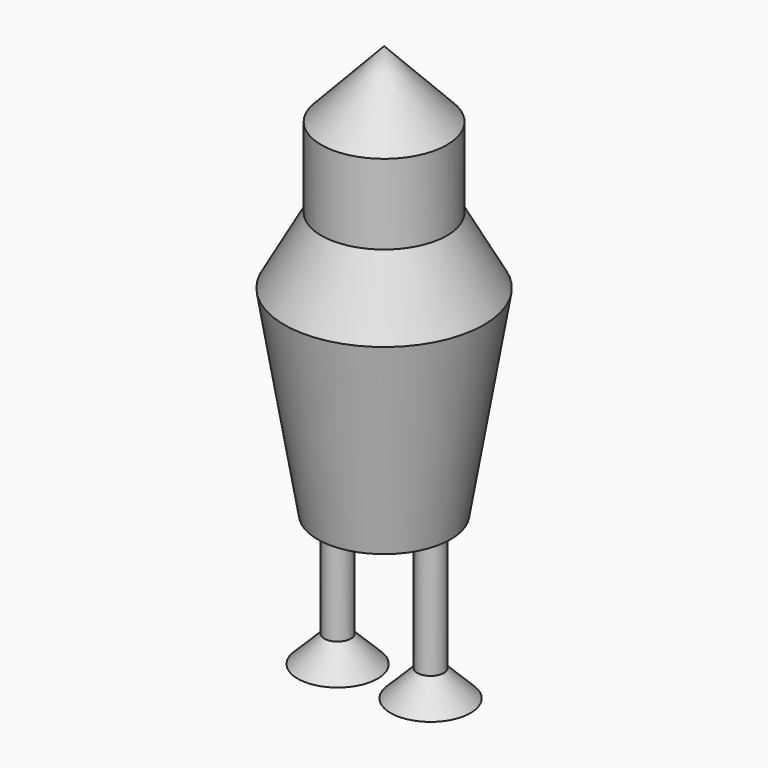
from build123d import *

# Parameters (mm, degrees)
F0_R       = 15
F2_R       = 5
F4_DEPTH   = 45
F7_R       = 25
F9_R       = 37.5
F10_FACE_R = 37.5
F12_R      = 23.6086591836
F14_DEPTH  = 30
F14_FACE_R = 23.6086591836


with BuildPart() as f3:
    # F0 (on Top) → F3 section 0
    with BuildSketch(Plane.XY):
        with Locations((-17.4585003406, 0)):
            Circle(F0_R)
    # F2 (on offset) → F3 section 1
    with BuildSketch(Plane.XY.offset(10)):
        with Locations((-17.4585003406, 0)):
            Circle(F2_R)
    loft()

    # F4 (add): a face of the model
    f4_faces = [f3.faces().sort_by_distance(p)[0] for p in [
        (-17.4585003406, 0, 10),
    ]]
    extrude(f4_faces, amount=F4_DEPTH)


with BuildPart() as f5_1:
    # F5: instance of F3
    add(f3.part.mirror(Plane.YZ))


with BuildPart() as f10:
    # F7 (on offset) → F10 section 0
    with BuildSketch(Plane.XY.offset(55)):
        Circle(F7_R)
    # F9 (on offset) → F10 section 1
    with BuildSketch(Plane.XY.offset(130)):
        Circle(F9_R)
    loft()

    # F10_face (on face) → F13 section 0
    with BuildSketch(Plane.XY.offset(130)):
        Circle(F10_FACE_R)
    # F12 (on offset) → F13 section 1
    with BuildSketch(Plane.XY.offset(155)):
        Circle(F12_R)
    loft()

    # F14 (add): a face of the model
    f14_faces = [f10.faces().sort_by_distance(p)[0] for p in [
        (0, 0, 155),
    ]]
    extrude(f14_faces, amount=F14_DEPTH)

    # F14_face (on face) → F17 section 0
    with BuildSketch(Plane.XY.offset(185), mode=Mode.PRIVATE) as f17_s0:
        Circle(F14_FACE_R)
    loft([f17_s0.sketch, Vertex(0, 0, 210)])


solid = Compound([f3.part, f5_1.part, f10.part])
